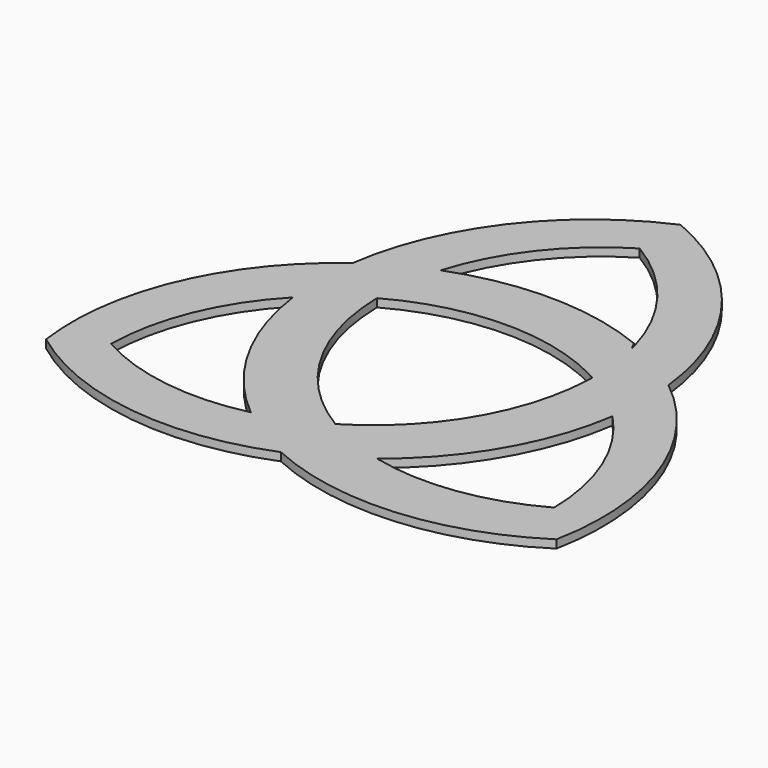
from build123d import *

# Parameters (mm, degrees)
F1_DEPTH = 2


with BuildPart() as f1:
    # F0 (on Top) → F1 (new body)
    with BuildSketch(Plane.XY):
        with BuildLine():
            ThreePointArc((-38.974674, 23.580405), (-60.390278, -3.375836), (-64.951905, -37.5))
            ThreePointArc((-64.951905, -37.5), (-34.023862, -50.167524), (-0.874012, -45.913403))
            ThreePointArc((-0.874012, -45.913403), (-8.553201, -41.779684), (-15.62271, -36.672862))
            ThreePointArc((-15.62271, -36.672862), (-35.378352, -37.537867), (-54.126588, -31.25))
            ThreePointArc((-54.126588, -31.25), (-50.044813, -11.494391), (-39.013473, 5.395087))
            ThreePointArc((-39.013473, 5.395087), (-33.020374, 10.762858), (-26.297898, 15.183099))
            ThreePointArc((-26.297898, 15.183099), (-0.599358, 21.996682), (25.243749, 15.753792))
            ThreePointArc((25.243749, 15.753792), (25.772403, 15.471363), (26.297898, 15.183099))
            ThreePointArc((26.297898, 15.183099), (25.95057, 22.252358), (24.683909, 29.21588))
            Line((24.683909, 29.21588), (23.603483, 31.219872))
            ThreePointArc((23.603483, 31.219872), (-0.144813, 36.00849), (-23.990038, 31.728577))
            ThreePointArc((-23.990038, 31.728577), (-31.751976, 28.150327), (-38.974674, 23.580405))
        make_face()
        with BuildLine():
            ThreePointArc((39.555322, 21.859627), (26.997523, 53.803957), (0, 75))
            ThreePointArc((0, 75), (-26.171862, 54.356893), (-38.974674, 23.580405))
            ThreePointArc((-38.974674, 23.580405), (-31.751976, 28.150327), (-23.990038, 31.728577))
            ThreePointArc((-23.990038, 31.728577), (-14.863791, 49.350843), (0, 62.5))
            ThreePointArc((0, 62.5), (15.106633, 49.036989), (24.21408, 30.967195))
            ThreePointArc((24.21408, 30.967195), (24.456327, 30.093505), (24.683909, 29.21588))
            ThreePointArc((24.683909, 29.21588), (25.95057, 22.252358), (26.297898, 15.183099))
            ThreePointArc((26.297898, 15.183099), (26.283203, 14.526877), (26.260553, 13.870882))
            ThreePointArc((26.260553, 13.870882), (18.720926, -11.566447), (0, -30.366197))
            ThreePointArc((0, -30.366197), (7.342348, -34.040767), (15.155964, -36.562659))
            ThreePointArc((15.155964, -36.562659), (31.176915, -18), (39.242174, 5.155879))
            ThreePointArc((39.242174, 5.155879), (39.933917, 13.49772), (39.555322, 21.859627))
        make_face()
        with BuildLine():
            ThreePointArc((-0.874012, -45.913403), (31.493402, -51.705945), (62.657862, -41.218834))
            ThreePointArc((62.657862, -41.218834), (59.931979, -6.447298), (39.555322, 21.859627))
            ThreePointArc((39.555322, 21.859627), (39.933917, 13.49772), (39.242174, 5.155879))
            ThreePointArc((39.242174, 5.155879), (50.107668, -11.647461), (54.126588, -31.25))
            ThreePointArc((54.126588, -31.25), (35.140832, -37.570783), (15.155964, -36.562659))
            ThreePointArc((15.155964, -36.562659), (7.342348, -34.040767), (0, -30.366197))
            ThreePointArc((0, -30.366197), (-19.052559, -11), (-26.297898, 15.183099))
            ThreePointArc((-26.297898, 15.183099), (-33.020374, 10.762858), (-39.013473, 5.395087))
            ThreePointArc((-39.013473, 5.395087), (-31.274777, -17.838898), (-15.62271, -36.672862))
            ThreePointArc((-15.62271, -36.672862), (-8.553201, -41.779684), (-0.874012, -45.913403))
        make_face()
    extrude(amount=F1_DEPTH)


solid = f1.part
